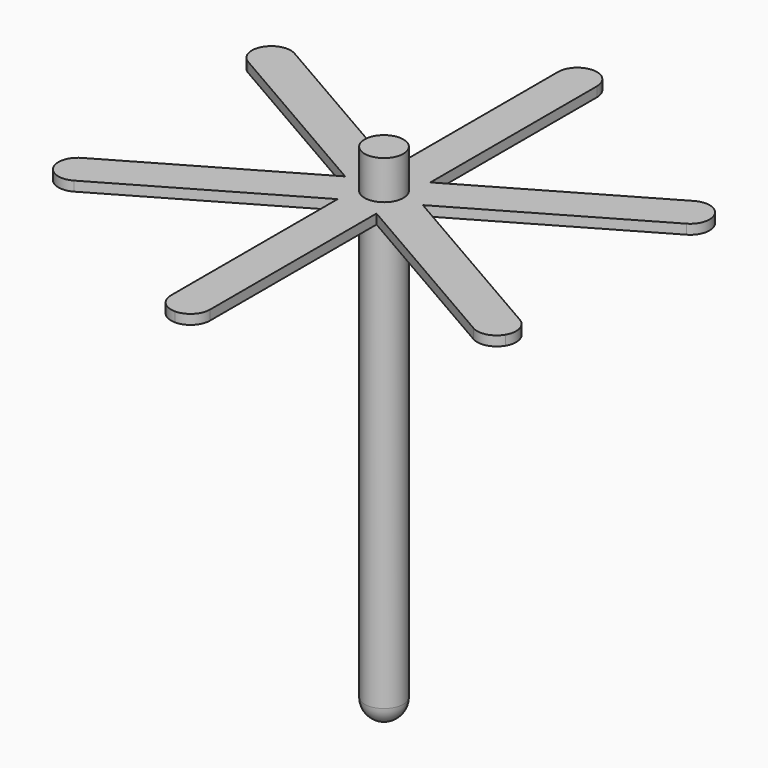
from build123d import *

# Parameters (mm, degrees)
F0_R     = 10.16
F1_DEPTH = 263.398
F4_DEPTH = 5.08
F5_R     = 10.16


with BuildPart() as f1:
    # F0 (on Top) → F1 (new body)
    with BuildSketch(Plane.XY):
        Circle(F0_R)
    extrude(amount=F1_DEPTH)

    # F3 (on offset) → F4 (join)
    with BuildSketch(Plane.XY.offset(237.998)):
        with BuildLine():
            ThreePointArc((0, 136.525), (-7.184205, 133.549205), (-10.16, 126.365))
            Line((-10.16, 126.365), (-10.16, 17.597636))
            Line((-10.16, 17.597636), (-104.3553, 71.981318))
            ThreePointArc((-104.3553, 71.981318), (-112.064902, 72.996306), (-118.234118, 68.2625))
            ThreePointArc((-118.234118, 68.2625), (-119.249107, 60.552899), (-114.5153, 54.383682))
            Line((-114.5153, 54.383682), (-20.32, 0))
            Line((-20.32, 0), (-114.5153, -54.383682))
            ThreePointArc((-114.5153, -54.383682), (-119.249107, -60.552899), (-118.234118, -68.2625))
            ThreePointArc((-118.234118, -68.2625), (-112.064902, -72.996306), (-104.3553, -71.981318))
            Line((-104.3553, -71.981318), (-10.16, -17.597636))
            Line((-10.16, -17.597636), (-10.16, -126.365))
            ThreePointArc((-10.16, -126.365), (-7.184205, -133.549205), (0, -136.525))
            ThreePointArc((0, -136.525), (7.184205, -133.549205), (10.16, -126.365))
            Line((10.16, -126.365), (10.16, -17.597636))
            Line((10.16, -17.597636), (104.3553, -71.981318))
            ThreePointArc((104.3553, -71.981318), (112.064902, -72.996306), (118.234118, -68.2625))
            ThreePointArc((118.234118, -68.2625), (119.249107, -60.552899), (114.5153, -54.383682))
            Line((114.5153, -54.383682), (20.32, 0))
            Line((20.32, 0), (114.5153, 54.383682))
            ThreePointArc((114.5153, 54.383682), (119.249107, 60.552899), (118.234118, 68.2625))
            ThreePointArc((118.234118, 68.2625), (112.064902, 72.996306), (104.3553, 71.981318))
            Line((104.3553, 71.981318), (10.16, 17.597636))
            Line((10.16, 17.597636), (10.16, 126.365))
            ThreePointArc((10.16, 126.365), (7.184205, 133.549205), (0, 136.525))
        make_face()
    extrude(amount=F4_DEPTH)

    # F5
    f5_edges = [f1.edges().sort_by_distance(p)[0] for p in [
        (-10.16, 0, 0),
    ]]
    fillet(f5_edges, radius=F5_R)


solid = f1.part
